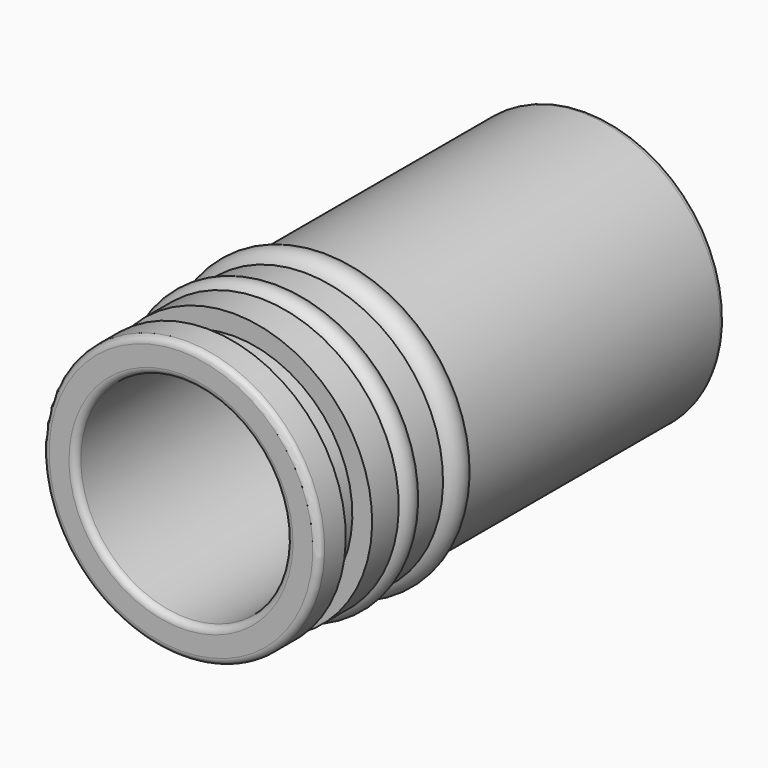
from build123d import *


with BuildPart() as f1:
    # F0 (on Right) → F1 (revolve)
    with BuildSketch(Plane.YZ):
        with BuildLine():
            Line((-23.375826, 21), (-27.375826, 21))
            ThreePointArc((-27.375826, 21), (-28.082933, 20.707107), (-28.375826, 20))
            Line((-28.375826, 20), (-28.375826, 17))
            ThreePointArc((-28.375826, 17), (-28.082933, 16.292893), (-27.375826, 16))
            Line((-27.375826, 16), (47.624174, 16))
            ThreePointArc((47.624174, 16), (48.331281, 16.292893), (48.624174, 17))
            Line((48.624174, 17), (48.624174, 20))
            ThreePointArc((48.624174, 20), (48.331281, 20.707107), (47.624174, 21))
            Line((47.624174, 21), (-0.345918, 21))
            Line((-0.345918, 21), (-4.928493, 21))
            Line((-4.928493, 21), (-9.867342, 21))
            Line((-9.867342, 21), (-13.331443, 21))
            Line((-13.331443, 21), (-18.375826, 21))
            Line((-18.375826, 21), (-18.375826, 18))
            Line((-18.375826, 18), (-23.375826, 18))
            Line((-23.375826, 18), (-23.375826, 21))
        make_face()
        with BuildLine():
            ThreePointArc((-9.867342, 21), (-11.599393, 22), (-13.331443, 21))
            Line((-13.331443, 21), (-9.867342, 21))
        make_face()
        with BuildLine():
            ThreePointArc((-0.345918, 21), (-2.637205, 22.5), (-4.928493, 21))
            Line((-4.928493, 21), (-0.345918, 21))
        make_face()
    revolve(axis=Axis((0, 6.925453, 0), (0, 1, 0)))


solid = f1.part
